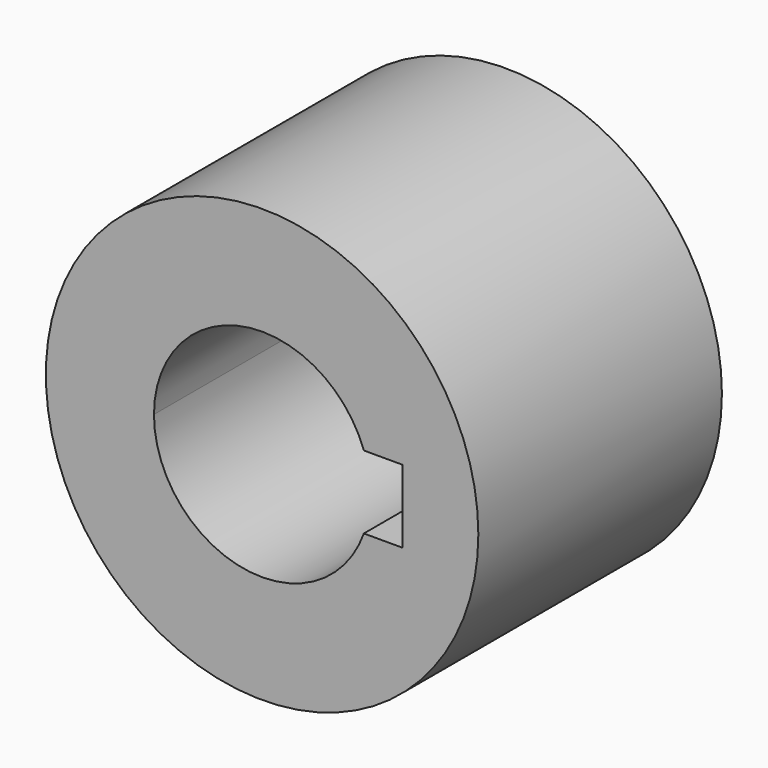
from build123d import *

# Parameters (mm, degrees)
F0_R     = 28.575
F1_DEPTH = 20.1168


with BuildPart() as f1:
    # F0 (on Front) → F1 (new body, symmetric)
    with BuildSketch(Plane.XZ):
        Circle(F0_R)
        with BuildLine():
            ThreePointArc((-14.2875, 0), (-2.449257, 14.076001), (13.447765, 4.826))
            Line((13.447765, 4.826), (18.5293, 4.826))
            Line((18.5293, 4.826), (18.5293, 0))
            Line((18.5293, 0), (18.5293, -4.826))
            Line((18.5293, -4.826), (13.447765, -4.826))
            ThreePointArc((13.447765, -4.826), (-2.449257, -14.076001), (-14.2875, 0))
        make_face(mode=Mode.SUBTRACT)
    extrude(amount=F1_DEPTH, both=True)


solid = f1.part
